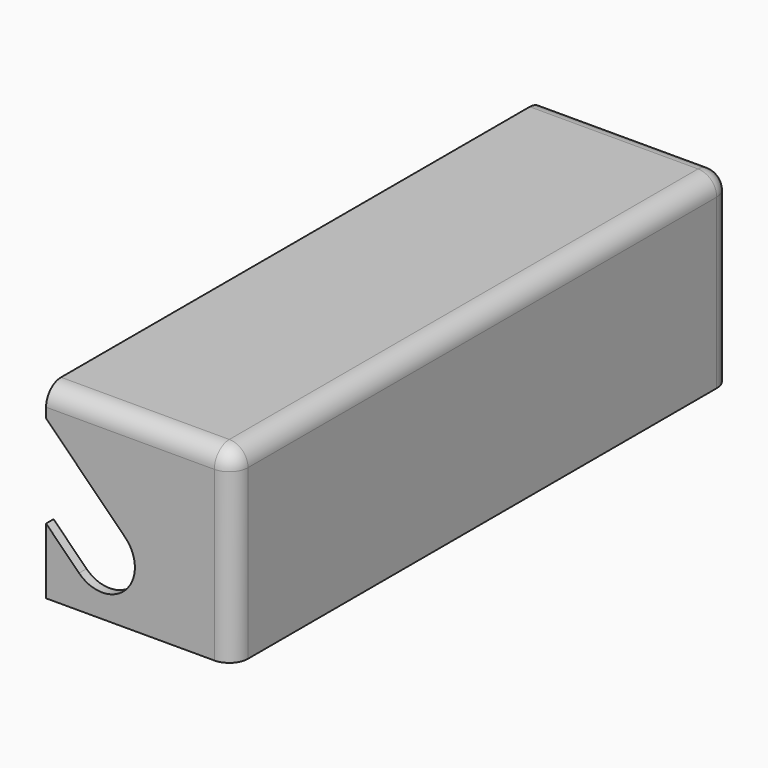
from build123d import *

# Parameters (mm, degrees)
F0_W          = 30
F0_H          = 30
F1_DEPTH      = 50
F1_DEPTH_BACK = 50
F2_R          = 3
F3_T          = -1.5
F5_DEPTH      = 100.001


with BuildPart() as f1:
    # F0 (on Front) → F1 (new body, two sides)
    with BuildSketch(Plane.XZ) as f1_sk:
        Rectangle(F0_W, F0_H)
    extrude(amount=F1_DEPTH)
    extrude(f1_sk.sketch, amount=-F1_DEPTH_BACK)

    # F2
    f2_edges = [f1.edges().sort_by_distance(p)[0] for p in [
        (0, -50, 15),
        (0, 50, 15),
        (15, 0, 15),
        (15, -50, 0),
        (15, 50, 0),
    ]]
    fillet(f2_edges, radius=F2_R)

    # F3
    f3_openings = [f1.faces().sort_by_distance(p)[0] for p in [
        (-15, 0, -0.018475),
        (-0.018475, 0, -15),
    ]]
    offset(amount=F3_T, openings=f3_openings)

    # F4 (on face) → F5 (cut, through all)
    with BuildSketch(Plane.XZ.offset(50)):
        with BuildLine():
            Line((-15, -4.424621), (-9.712311, -9.712311))
            ThreePointArc((-9.712311, -9.712311), (-2.287689, -9.712311), (-2.287689, -2.287689))
            Line((-2.287689, -2.287689), (-15, 10.424621))
            Line((-15, 10.424621), (-15, -4.424621))
        make_face()
    extrude(amount=-F5_DEPTH, mode=Mode.SUBTRACT)


solid = f1.part
